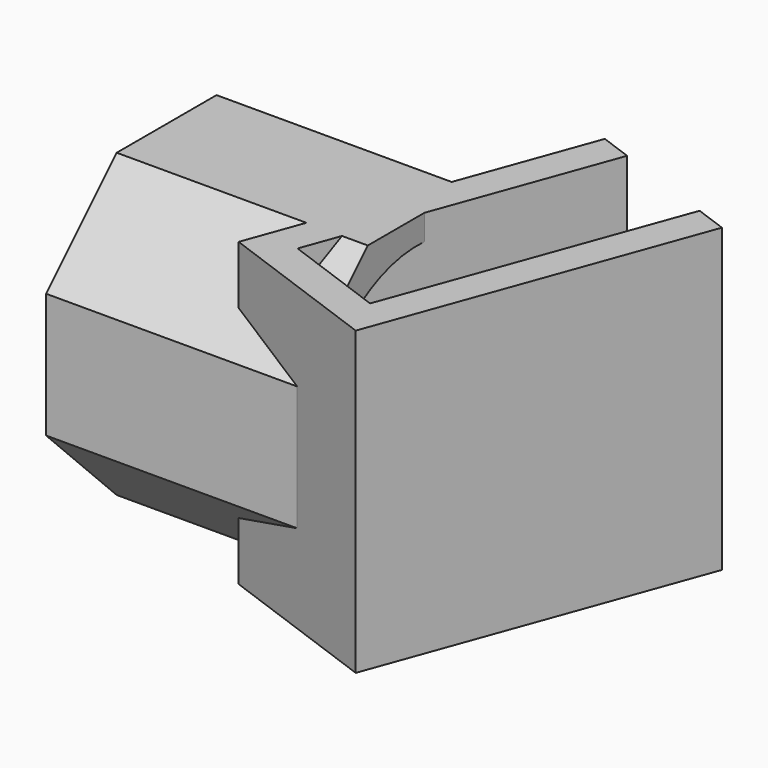
from build123d import *

# Parameters (mm, degrees)
PAD_DEPTH     = 18
SKETCH001_R   = 7.5
SKETCH001_R_2 = 4
PAD001_DEPTH  = 15


with BuildPart() as part:
    # Sketch → Pad (new body)
    with BuildSketch(Plane(origin=(0, 0, 0), x_dir=(0.939693, -0.34202, 0), z_dir=(0, 0, 1))):
        Polygon((-5.25, 20), (-5.25, 0), (5.25, 0), (5.25, 20), (3.25, 20), (3.25, 2), (-3.25, 2), (-3.25, 20), align=None)
    extrude(amount=PAD_DEPTH)

    # Sketch001 → Pad001 (join)
    with BuildSketch(Plane.YZ):
        Polygon((12.727922, 18), (5.272078, 18), (0, 12.727922), (0, 5.272078), (5.272078, 0), (12.727922, 0), (18, 5.272078), (18, 12.727922), align=None)
        with Locations((9, 9)):
            Circle(SKETCH001_R, mode=Mode.SUBTRACT)
        with Locations((9, 9)):
            Circle(SKETCH001_R_2)
    extrude(amount=-PAD001_DEPTH)


solid = part.part
